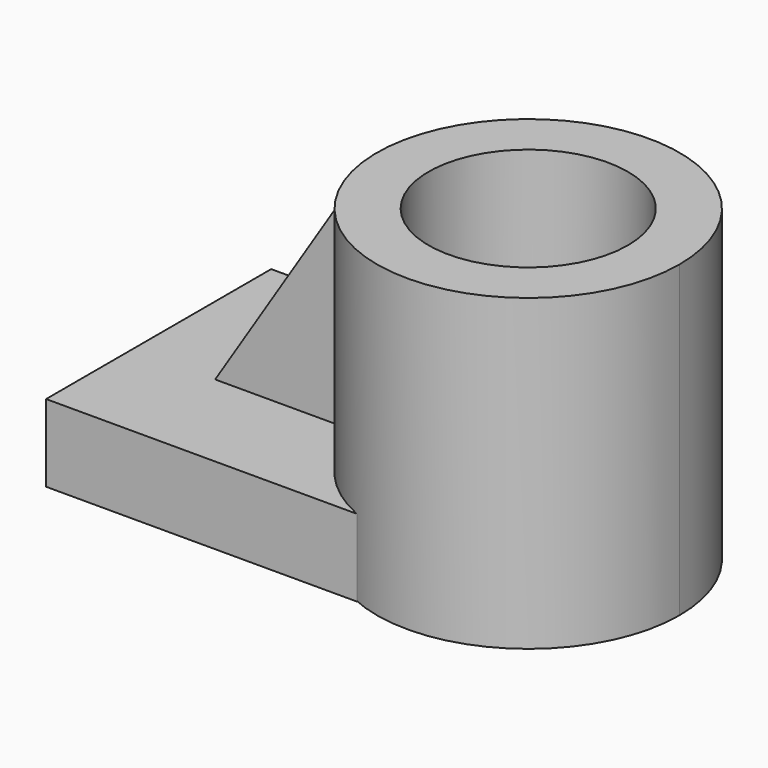
from build123d import *

# Parameters (mm, degrees)
F0_R     = 8.195567
F1_DEPTH = 25.4
F3_DEPTH = 6.35
F5_DEPTH = 2.54


with BuildPart() as f1:
    # F0 (on Top) → F1 (new body)
    with BuildSketch(Plane.XY):
        with BuildLine():
            ThreePointArc((-4.515771, 11.591242), (-7.02046, -10.26948), (12.439818, 0))
            ThreePointArc((12.439818, 0), (7.02046, 10.26948), (-4.515771, 11.591242))
        make_face()
        Circle(F0_R, mode=Mode.SUBTRACT)
    extrude(amount=F1_DEPTH)


with BuildPart() as f3:
    # F2 (on Top) → F3 (new body)
    with BuildSketch(Plane.XY):
        with BuildLine():
            ThreePointArc((-4.940377, -11.447215), (-12.505839, 0.120497), (-4.940377, 11.688208))
            Line((-4.940377, 11.688208), (-30.485738, 11.688208))
            Line((-30.485738, 11.688208), (-30.485738, -11.447215))
            Line((-30.485738, -11.447215), (-4.940377, -11.447215))
        make_face()
    extrude(amount=F3_DEPTH)

    # F4 (on Front) → F5 (join)
    with BuildSketch(Plane.XZ):
        Polygon((-13.134171, 23.005143), (-23.737907, 6.305113), (-13.134171, 6.305113), align=None)
    extrude(amount=F5_DEPTH)


solid = Compound([f1.part, f3.part])
